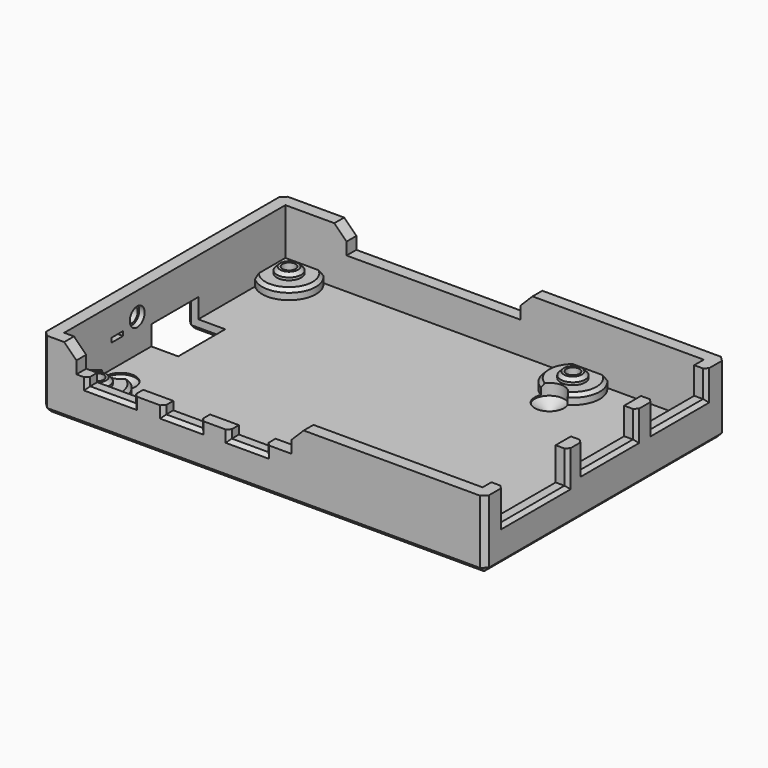
from build123d import *

# Parameters (mm, degrees)
SKETCH043_W     = 90.5
SKETCH043_H     = 61.5
PAD022_DEPTH    = 9
SKETCH_W        = 85.5
SKETCH_H        = 56.5
POCKET_DEPTH    = 6.5
PAD_DEPTH       = 5
CHAMFER_SIZE    = 2.49
SKETCH046_W     = 9.4
SKETCH046_H     = 3.4
SKETCH046_W_2   = 7.5
POCKET001_DEPTH = 2.5
CHAMFER002_SIZE = 0.7
SKETCH047_W     = 13.6
SKETCH047_H     = 14.5
SKETCH047_W_2   = 16.4
SKETCH047_H_2   = 13.5
POCKET002_DEPTH = 2.5
CHAMFER003_SIZE = 0.7
SKETCH048_W     = 12
SKETCH048_H     = 6.5
POCKET003_DEPTH = 8
SKETCH049_W     = 3
SKETCH049_H     = 0.9
POCKET004_DEPTH = 5
CHAMFER005_SIZE = 0.7
CHAMFER006_SIZE = 1
SKETCH050_R     = 5.5
PAD024_DEPTH    = 2
CHAMFER007_SIZE = 0.675
SKETCH051_R     = 2.5
PAD025_DEPTH    = 1.2
CHAMFER008_SIZE = 0.675
SKETCH052_R     = 1.35
POCKET005_DEPTH = 5.701
SKETCH053_R     = 2.5
POCKET006_DEPTH = 2
SKETCH097_R     = 1.9
POCKET023_DEPTH = 1.1
SKETCH098_R     = 1.5
POCKET024_DEPTH = 5
SKETCH103_R     = 3
HOLE001_DEPTH   = 3.5
HOLE001_TIPS_R  = 3


with BuildPart() as part:
    # Sketch043 → Pad022 (new body)
    with BuildSketch(Plane.XY):
        with Locations((45.25, 30.75)):
            Rectangle(SKETCH043_W, SKETCH043_H)
    extrude(amount=PAD022_DEPTH)

    # Sketch → Pocket (cut)
    with BuildSketch(Plane.XY.offset(9)):
        with Locations((45.25, 30.75)):
            Rectangle(SKETCH_W, SKETCH_H)
    extrude(amount=-POCKET_DEPTH, mode=Mode.SUBTRACT)

    # Sketch044 → Pad (join)
    with BuildSketch(Plane.XY.offset(9)):
        Polygon((15, 61.5), (0, 61.5), (0, 0), (7, 0), (7, 2.5), (2.5, 2.5), (2.5, 59), (15, 59), align=None)
        Polygon((50.5, 61.5), (90.5, 61.5), (90.5, 0), (50.95, 0), (50.95, 2.5), (88, 2.5), (88, 59), (50.5, 59), align=None)
    extrude(amount=PAD_DEPTH)

    # Chamfer
    chamfer_edges = [part.edges().sort_by_distance(p)[0] for p in [
        (7, 1.25, 14),
        (15, 60.25, 14),
        (50.5, 60.25, 14),
        (50.95, 1.25, 14),
    ]]
    chamfer(chamfer_edges, length=CHAMFER_SIZE)

    # Sketch046 → Pocket001 (cut)
    with BuildSketch(Plane.XZ):
        with Locations((13.95, 9)):
            Rectangle(SKETCH046_W, SKETCH046_H)
        with Locations((28.55, 9)):
            Rectangle(SKETCH046_W_2, SKETCH046_H)
        with Locations((41.95, 9)):
            Rectangle(SKETCH046_W_2, SKETCH046_H)
    extrude(amount=-POCKET001_DEPTH, mode=Mode.SUBTRACT)

    # Chamfer002
    chamfer002_edges = [part.edges().sort_by_distance(p)[0] for p in [
        (9.25, 0, 8.15),
        (13.95, 0, 7.3),
        (18.65, 0, 8.15),
        (24.8, 0, 8.15),
        (28.55, 0, 7.3),
        (32.3, 0, 8.15),
        (38.2, 0, 8.15),
        (41.95, 0, 7.3),
        (45.7, 0, 8.15),
    ]]
    chamfer(chamfer002_edges, length=CHAMFER002_SIZE)

    # Sketch047 → Pocket002 (cut)
    with BuildSketch(Plane.YZ.offset(90.5)):
        with Locations((49.75, 15.75)):
            Rectangle(SKETCH047_W, SKETCH047_H)
        with Locations((31.85, 15.75)):
            Rectangle(SKETCH047_W, SKETCH047_H)
        with Locations((12.95, 14.05)):
            Rectangle(SKETCH047_W_2, SKETCH047_H_2)
    extrude(amount=-POCKET002_DEPTH, mode=Mode.SUBTRACT)

    # Chamfer003
    chamfer003_edges = [part.edges().sort_by_distance(p)[0] for p in [
        (90.5, 4.75, 8.15),
        (90.5, 12.95, 7.3),
        (90.5, 21.15, 8.15),
        (90.5, 25.05, 8.75),
        (90.5, 31.85, 8.5),
        (90.5, 38.65, 8.75),
        (90.5, 42.95, 8.75),
        (90.5, 49.75, 8.5),
        (90.5, 56.55, 8.75),
    ]]
    chamfer(chamfer003_edges, length=CHAMFER003_SIZE)

    # Sketch048 → Pocket003 (cut)
    with BuildSketch(Plane.YZ):
        with Locations((30.75, 3.25)):
            Rectangle(SKETCH048_W, SKETCH048_H)
    extrude(amount=POCKET003_DEPTH, mode=Mode.SUBTRACT)

    # Sketch049 → Pocket004 (cut)
    with BuildSketch(Plane.YZ):
        with Locations((16.05, 7.75)):
            Rectangle(SKETCH049_W, SKETCH049_H)
    extrude(amount=POCKET004_DEPTH, mode=Mode.SUBTRACT)

    # Chamfer005
    chamfer005_edges = [part.edges().sort_by_distance(p)[0] for p in [
        (0, 16.05, 7.3),
        (0, 14.55, 7.75),
        (0, 17.55, 7.75),
        (0, 16.05, 8.2),
    ]]
    chamfer(chamfer005_edges, length=CHAMFER005_SIZE)

    # Chamfer006
    chamfer006_edges = [part.edges().sort_by_distance(p)[0] for p in [
        (45.25, 0, 0),
        (0, 49.125, 0),
        (0, 12.375, 0),
        (0, 30.75, 6.5),
        (0, 24.75, 3.25),
        (0, 36.75, 3.25),
        (90.5, 30.75, 0),
        (0, 61.5, 4.5),
        (90.5, 0, 4.5),
        (0, 0, 4.5),
        (4, 36.75, 0),
        (8, 30.75, 0),
        (4, 24.75, 0),
        (45.25, 61.5, 0),
        (90.5, 61.5, 4.5),
    ]]
    chamfer(chamfer006_edges, length=CHAMFER006_SIZE)

    # Sketch050 → Pad024 (join)
    with BuildSketch(Plane.XY.offset(2.5)):
        with Locations((6.25, 55.25)):
            Circle(SKETCH050_R)
        with Locations((6.25, 6.25)):
            Circle(SKETCH050_R)
        with Locations((64.25, 55.25)):
            Circle(SKETCH050_R)
        with Locations((64.25, 6.25)):
            Circle(SKETCH050_R)
    extrude(amount=PAD024_DEPTH)

    # Chamfer007
    chamfer007_edges = [part.edges().sort_by_distance(p)[0] for p in [
        (62.234874, 50.132455, 4.5),
        (62.234874, 11.367545, 4.5),
        (8.443741, 11.29356, 4.5),
        (8.443741, 50.20644, 4.5),
    ]]
    chamfer(chamfer007_edges, length=CHAMFER007_SIZE)

    # Sketch051 → Pad025 (join)
    with BuildSketch(Plane.XY.offset(4.5)):
        with Locations((6.25, 55.25)):
            Circle(SKETCH051_R)
        with Locations((6.25, 6.25)):
            Circle(SKETCH051_R)
        with Locations((64.25, 55.25)):
            Circle(SKETCH051_R)
        with Locations((64.25, 6.25)):
            Circle(SKETCH051_R)
    extrude(amount=PAD025_DEPTH)

    # Chamfer008
    chamfer008_edges = [part.edges().sort_by_distance(p)[0] for p in [
        (3.75, 6.25, 5.7),
        (3.75, 55.25, 5.7),
        (61.75, 55.25, 5.7),
        (61.75, 6.25, 5.7),
    ]]
    chamfer(chamfer008_edges, length=CHAMFER008_SIZE)

    # Sketch052 → Pocket005 (cut, through all)
    with BuildSketch(Plane.XY.offset(5.7)):
        with Locations((6.25, 55.25)):
            Circle(SKETCH052_R)
        with Locations((6.25, 6.25)):
            Circle(SKETCH052_R)
        with Locations((64.25, 55.25)):
            Circle(SKETCH052_R)
        with Locations((64.25, 6.25)):
            Circle(SKETCH052_R)
    extrude(amount=-POCKET005_DEPTH, mode=Mode.SUBTRACT)

    # Sketch053 → Pocket006 (cut)
    with BuildSketch(Plane.XY):
        with Locations((6.25, 55.25)):
            Circle(SKETCH053_R)
        with Locations((6.25, 6.25)):
            Circle(SKETCH053_R)
        with Locations((64.25, 55.25)):
            Circle(SKETCH053_R)
        with Locations((64.25, 6.25)):
            Circle(SKETCH053_R)
    extrude(amount=POCKET006_DEPTH, mode=Mode.SUBTRACT)

    # Sketch097 → Pocket023 (cut)
    with BuildSketch(Plane.YZ.offset(2.5)):
        with Locations((21.15, 9.3)):
            Circle(SKETCH097_R)
    extrude(amount=-POCKET023_DEPTH, mode=Mode.SUBTRACT)

    # Sketch098 → Pocket024 (cut)
    with BuildSketch(Plane.YZ):
        with Locations((21.15, 9.3)):
            Circle(SKETCH098_R)
    extrude(amount=POCKET024_DEPTH, mode=Mode.SUBTRACT)

    # Sketch103 → Hole001 (cut)
    with BuildSketch(Plane.XY.offset(5.7)):
        with Locations((6.25, 12.25)):
            Circle(SKETCH103_R)
        with Locations((64.25, 49.25)):
            Circle(SKETCH103_R)
    extrude(amount=-HOLE001_DEPTH, mode=Mode.SUBTRACT)

    # Hole001 tips → Hole001 tip 1 section 0
    with BuildSketch(Plane.XY.offset(2.2), mode=Mode.PRIVATE) as hole001_tip_1_s0:
        with Locations((6.25, 12.25)):
            Circle(HOLE001_TIPS_R)
    loft([hole001_tip_1_s0.sketch, Vertex(6.25, 12.25, 0.397418)], mode=Mode.SUBTRACT)

    # Hole001 tips → Hole001 tip 2 section 0
    with BuildSketch(Plane.XY.offset(2.2), mode=Mode.PRIVATE) as hole001_tip_2_s0:
        with Locations((64.25, 49.25)):
            Circle(HOLE001_TIPS_R)
    loft([hole001_tip_2_s0.sketch, Vertex(64.25, 49.25, 0.397418)], mode=Mode.SUBTRACT)


solid = part.part
